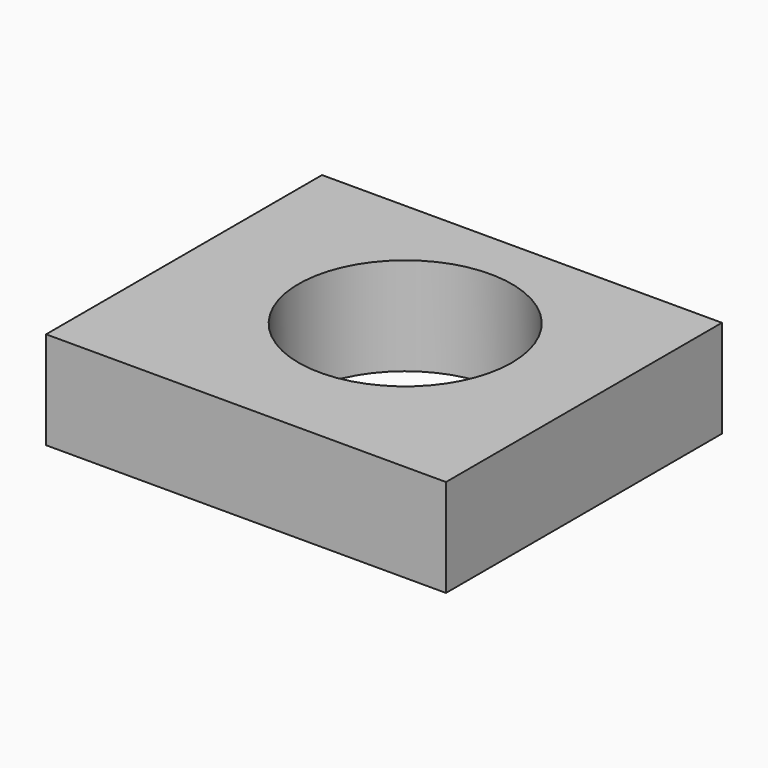
from build123d import *

# Parameters (mm, degrees)
F0_W     = 103.998103
F0_H     = 89.694634
F1_DEPTH = 25.4
F2_R     = 27.734181
F3_DEPTH = 25.4


with BuildPart() as f1:
    # F0 (on Top) → F1 (new body)
    with BuildSketch(Plane.XY):
        with Locations((-1.936927, -4.469831)):
            Rectangle(F0_W, F0_H)
    extrude(amount=F1_DEPTH)

    # F2 (on face) → F3 (cut)
    with BuildSketch(Plane.XY.offset(25.4)):
        Circle(F2_R)
    extrude(amount=-F3_DEPTH, mode=Mode.SUBTRACT)


solid = f1.part
